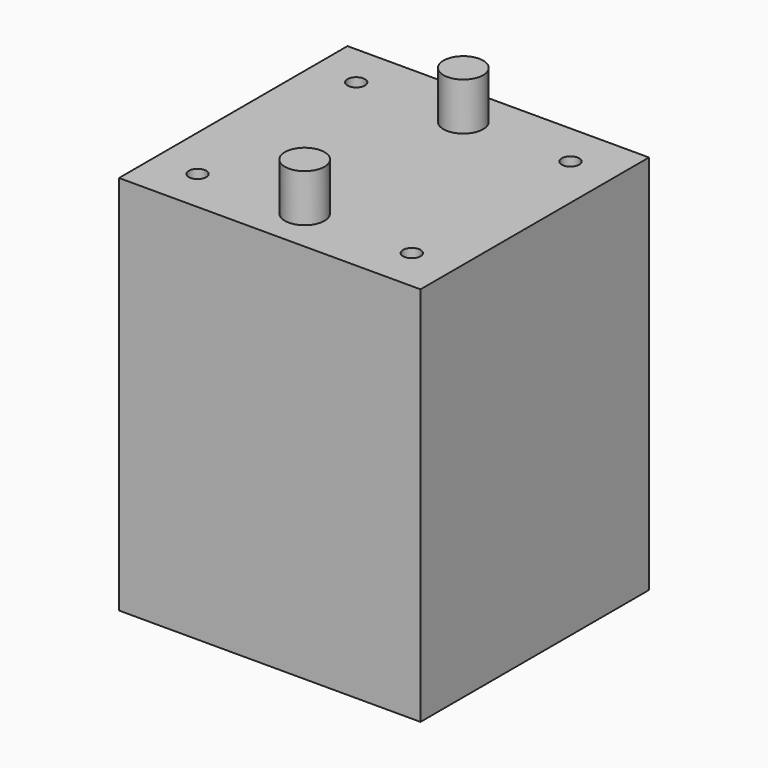
from build123d import *

# Parameters (mm, degrees)
F0_W     = 48.26
F0_H     = 45.72
F0_R     = 1.397
F0_R_2   = 3.175
F1_DEPTH = 60.96
F2_DEPTH = 12.7
F3_DEPTH = 7.62


with BuildPart() as f1:
    # F0 (on Top) → F1 (new body)
    with BuildSketch(Plane.XY):
        Rectangle(F0_W, F0_H)
        with Locations((-17.145, -15.875)):
            Circle(F0_R, mode=Mode.SUBTRACT)
        with Locations((0, -15.875)):
            Circle(F0_R_2, mode=Mode.SUBTRACT)
        with Locations((17.145, -15.875)):
            Circle(F0_R, mode=Mode.SUBTRACT)
        with Locations((-17.145, 15.875)):
            Circle(F0_R, mode=Mode.SUBTRACT)
        with Locations((0, 15.875)):
            Circle(F0_R_2, mode=Mode.SUBTRACT)
        with Locations((17.145, 15.875)):
            Circle(F0_R, mode=Mode.SUBTRACT)
        with Locations((0, 15.875)):
            Circle(F0_R_2)
        with Locations((0, -15.875)):
            Circle(F0_R_2)
        with Locations((-17.145, 15.875)):
            Circle(F0_R)
        with Locations((-17.145, -15.875)):
            Circle(F0_R)
        with Locations((17.145, 15.875)):
            Circle(F0_R)
        with Locations((17.145, -15.875)):
            Circle(F0_R)
    extrude(amount=-F1_DEPTH)

    # F0 (on Top) → F2 (cut)
    with BuildSketch(Plane.XY):
        with Locations((-17.145, 15.875)):
            Circle(F0_R)
        with Locations((-17.145, -15.875)):
            Circle(F0_R)
        with Locations((17.145, 15.875)):
            Circle(F0_R)
        with Locations((17.145, -15.875)):
            Circle(F0_R)
    extrude(amount=-F2_DEPTH, mode=Mode.SUBTRACT)

    # F0 (on Top) → F3 (join)
    with BuildSketch(Plane.XY):
        with Locations((0, 15.875)):
            Circle(F0_R_2)
        with Locations((0, -15.875)):
            Circle(F0_R_2)
    extrude(amount=F3_DEPTH)


solid = f1.part
